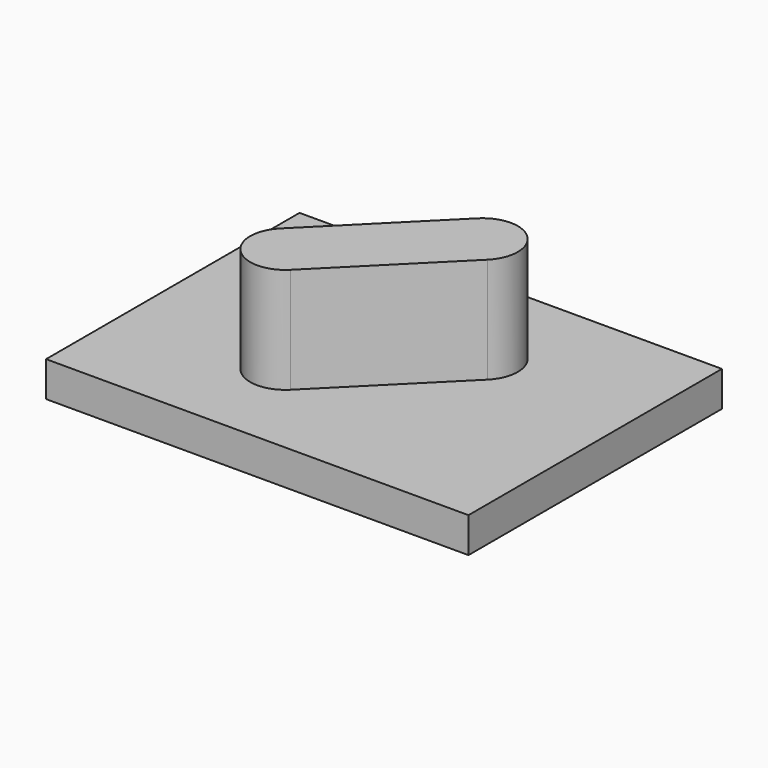
from build123d import *

# Parameters (mm, degrees)
F0_W     = 152.4
F0_H     = 114.3
F1_DEPTH = 12.7
F3_DEPTH = 38.1


with BuildPart() as f1:
    # F0 (on Top) → F1 (new body)
    with BuildSketch(Plane.XY):
        Rectangle(F0_W, F0_H)
    extrude(amount=-F1_DEPTH)

    # F2 (on face) → F3 (join)
    with BuildSketch(Plane.XY):
        with BuildLine():
            Line((-10.776307, -28.73682), (-19.756563, -19.756563))
            Line((-19.756563, -19.756563), (-28.73682, -28.73682))
            ThreePointArc((-28.73682, -28.73682), (-19.756563, -32.456563), (-10.776307, -28.73682))
        make_face()
        with BuildLine():
            Line((-28.73682, -28.73682), (-19.756563, -19.756563))
            Line((-19.756563, -19.756563), (-28.73682, -10.776307))
            ThreePointArc((-28.73682, -10.776307), (-32.456563, -19.756563), (-28.73682, -28.73682))
        make_face()
        with BuildLine():
            Line((28.73682, 28.73682), (19.756563, 19.756563))
            Line((19.756563, 19.756563), (28.73682, 10.776307))
            ThreePointArc((28.73682, 10.776307), (32.456563, 19.756563), (28.73682, 28.73682))
        make_face()
        with BuildLine():
            Line((10.776307, 28.73682), (19.756563, 19.756563))
            Line((19.756563, 19.756563), (28.73682, 28.73682))
            ThreePointArc((28.73682, 28.73682), (19.756563, 32.456563), (10.776307, 28.73682))
        make_face()
        Polygon((19.756563, 19.756563), (0, 0), (-19.756563, -19.756563), (-10.776307, -28.73682), (28.73682, 10.776307), align=None)
        Polygon((-19.756563, -19.756563), (0, 0), (19.756563, 19.756563), (10.776307, 28.73682), (-28.73682, -10.776307), align=None)
    extrude(amount=F3_DEPTH)


solid = f1.part
